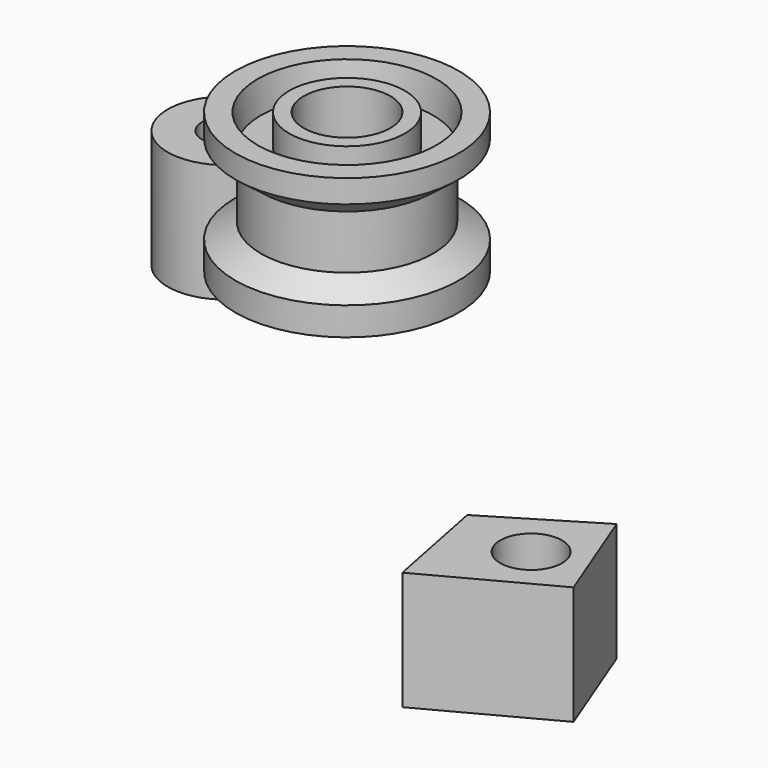
from build123d import *

# Parameters (mm, degrees)
F0_R     = 12.25667
F1_DEPTH = 25
F4_R     = 5
F5_DEPTH = 25
F6_R     = 6.518581
F7_DEPTH = 25


with BuildPart() as f1:
    # F0 (on Top) → F1 (new body)
    with BuildSketch(Plane.XY):
        with Locations((-63.389145, 47.230273)):
            Circle(F0_R)
    extrude(amount=F1_DEPTH)

    # F4 (on face) → F5 (cut, through all)
    with BuildSketch(Plane(origin=(0, 0, 0), x_dir=(1, 0, 0), z_dir=(0, 0, -1))):
        with Locations((-63.389145, -47.230273)):
            Circle(F4_R)
    extrude(amount=-F5_DEPTH, mode=Mode.SUBTRACT)


with BuildPart() as f3:
    # F2 (on Front) → F3 (revolve)
    with BuildSketch(Plane.XZ):
        Polygon((-18.167537, 61.791237), (-18.889185, 68.286084), (-23.579909, 68.286084), (-23.579909, 63.414954), (-18.167537, 59.265465), (-18.167537, 47.899485), (-23.579909, 44.652063), (-23.579909, 38.698457), (-19.971659, 38.698457), (-19.971659, 41.945878), (-18.167537, 41.945878), (-18.167537, 38.698457), (-15.100526, 38.698457), (-15.100526, 41.945878), (-12.213928, 41.945878), (-12.213928, 38.698457), (-9.146918, 38.698457), (-9.146918, 68.286084), (-12.213928, 68.286084), (-12.213928, 61.791237), align=None)
    revolve(axis=Axis((0, 0, 53.131446), (0, 0, -1)))


with BuildPart() as f7:
    # F6 (on Top) → F7 (new body)
    with BuildSketch(Plane.XY):
        Polygon((83.186708, -44.223033), (74.604809, -22.12462), (53.364586, -34.997482), (57.870086, -57.739537), align=None)
        with Locations((69.776148, -38.649976)):
            Circle(F6_R, mode=Mode.SUBTRACT)
    extrude(amount=F7_DEPTH)


solid = Compound([f1.part, f3.part, f7.part])
